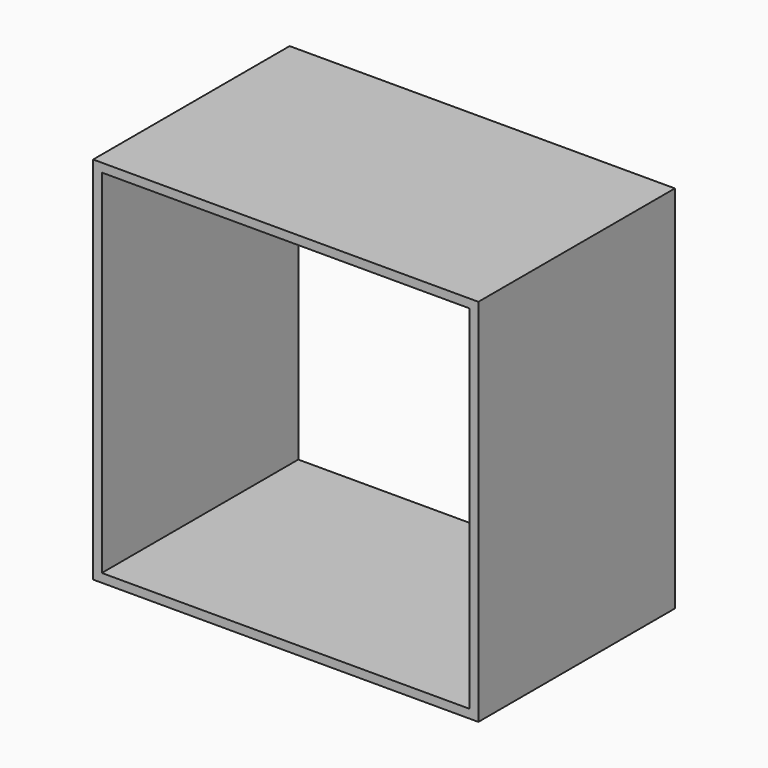
from build123d import *

# Parameters (mm, degrees)
F0_W     = 800
F0_H     = 510
F1_DEPTH = 18
F2_W     = 18
F2_H     = 510
F3_DEPTH = 750
F4_W     = 18
F4_H     = 510
F5_DEPTH = 750
F6_W     = 510
F6_H     = 18
F7_DEPTH = 764


with BuildPart() as f1:
    # F0 (on Top) → F1 (new body)
    with BuildSketch(Plane.XY):
        Rectangle(F0_W, F0_H)
    extrude(amount=F1_DEPTH)

    # F2 (on face) → F3 (join)
    with BuildSketch(Plane.XY.offset(18)):
        with Locations((-391, 0)):
            Rectangle(F2_W, F2_H)
    extrude(amount=F3_DEPTH)

    # F4 (on face) → F5 (join)
    with BuildSketch(Plane.XY.offset(18)):
        with Locations((391, 0)):
            Rectangle(F4_W, F4_H)
    extrude(amount=F5_DEPTH)

    # F6 (on face) → F7 (join)
    with BuildSketch(Plane(origin=(382, 0, 0), x_dir=(0, -1, 0), z_dir=(-1, 0, 0))):
        with Locations((0, 759)):
            Rectangle(F6_W, F6_H)
    extrude(amount=F7_DEPTH)


solid = f1.part
